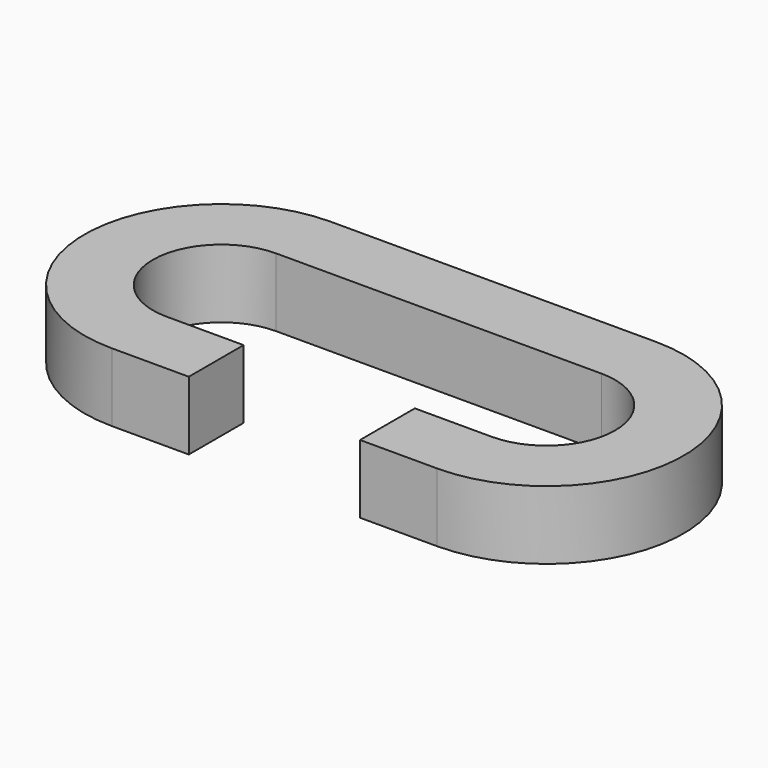
from build123d import *

# Parameters (mm, degrees)
F0_W     = 14.27779
F0_H     = 12.7
F1_DEPTH = 12.7


with BuildPart() as f1:
    # F0 (on Top) → F1 (new body)
    with BuildSketch(Plane.XY):
        with BuildLine():
            Line((-15.076395, -6.35), (15.076395, -6.35))
            ThreePointArc((15.076395, -6.35), (27.776395, -19.05), (15.076395, -31.75))
            Line((15.076395, -31.75), (15.076395, -44.45))
            ThreePointArc((15.076395, -44.45), (40.476395, -19.05), (15.076395, 6.35))
            Line((15.076395, 6.35), (-15.076395, 6.35))
            Line((-15.076395, 6.35), (-15.076395, -6.35))
        make_face()
        with Locations((7.9375, -38.1)):
            Rectangle(F0_W, F0_H)
    extrude(amount=F1_DEPTH)

    # F2: F1 across face


with BuildPart() as f1_1:
    add(f1.part)
    add(f1.part.mirror(Plane(origin=(-15.076395, 0, 6.35), x_dir=(0, -1, 0), z_dir=(-1, 0, 0))))


solid = f1_1.part
